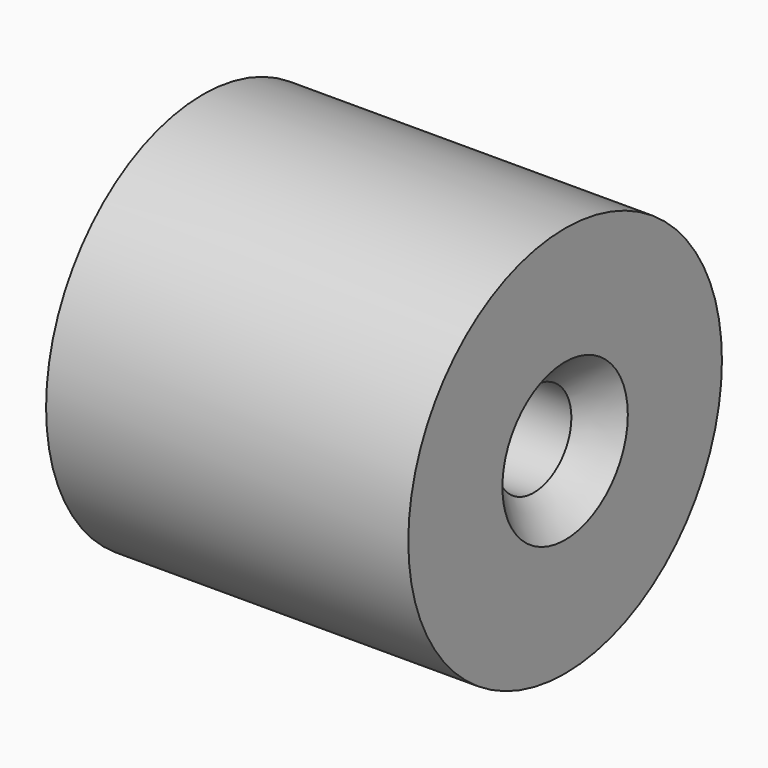
from build123d import *

# Parameters (mm, degrees)
F2_SIZE = 2


with BuildPart() as f1:
    # F0 (on Top) → F1 (revolve)
    with BuildSketch(Plane.XY):
        Polygon((12.410893, 12.5), (-10.688156, 12.5), (-10.688156, 0), (-4.391689, 0), (-2.589107, 3), (12.410893, 3), align=None)
        with BuildLine():
            Line((-10.688156, 0), (-10.688156, 12.5))
            ThreePointArc((-10.688156, 12.5), (-12.111153, 6.321859), (-12.589107, 0))
            Line((-12.589107, 0), (-10.688156, 0))
        make_face()
    revolve(axis=Axis((-7.539923, 0, 0), (-1, 0, 0)))

    # F2
    f2_edges = [f1.edges().sort_by_distance(p)[0] for p in [
        (12.410893, -3, 0),
    ]]
    chamfer(f2_edges, length=F2_SIZE)


solid = f1.part
